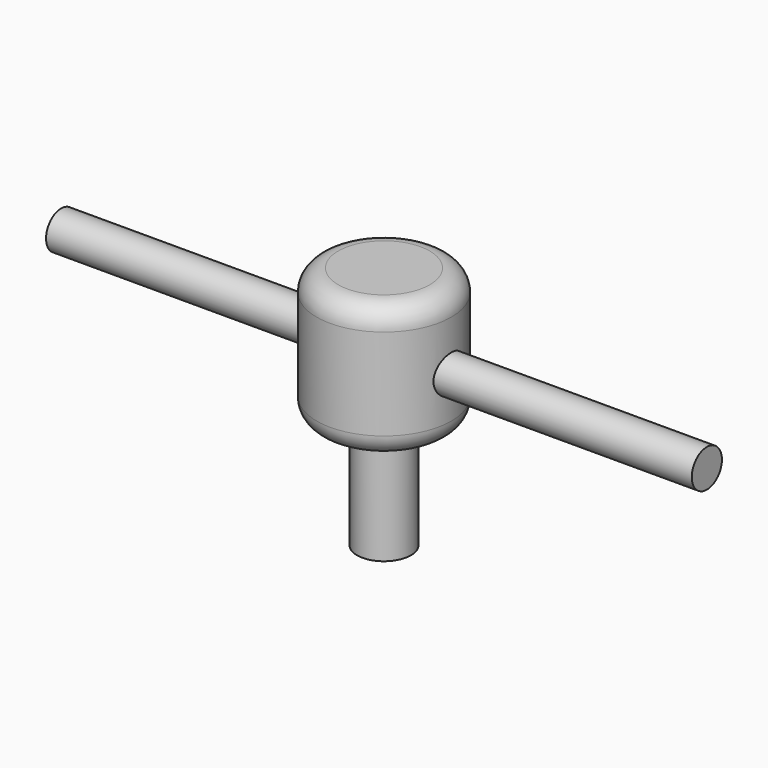
from build123d import *

# Parameters (mm, degrees)
F0_R     = 15.875
F1_DEPTH = 31.75
F2_R     = 4.445
F3_DEPTH = 76.2
F4_R     = 4.445
F5_DEPTH = 76.2
F6_R     = 6.35
F7_DEPTH = 25.908
F8_R     = 5.08


with BuildPart() as f1:
    # F0 (on Top) → F1 (new body)
    with BuildSketch(Plane.XY):
        Circle(F0_R)
    extrude(amount=F1_DEPTH)

    # F2 (on Right) → F3 (join)
    with BuildSketch(Plane.YZ):
        with Locations((0, 14.891451)):
            Circle(F2_R)
    extrude(amount=F3_DEPTH)

    # F4 (on Right) → F5 (join)
    with BuildSketch(Plane.YZ):
        with Locations((0, 14.891451)):
            Circle(F4_R)
    extrude(amount=-F5_DEPTH)

    # F6 (on face) → F7 (join)
    with BuildSketch(Plane(origin=(0, 0, 0), x_dir=(1, 0, 0), z_dir=(0, 0, -1))):
        Circle(F6_R)
    extrude(amount=F7_DEPTH)

    # F8
    f8_edges = [f1.edges().sort_by_distance(p)[0] for p in [
        (-15.875, 0, 31.75),
        (-15.875, 0, 0),
    ]]
    fillet(f8_edges, radius=F8_R)


solid = f1.part
